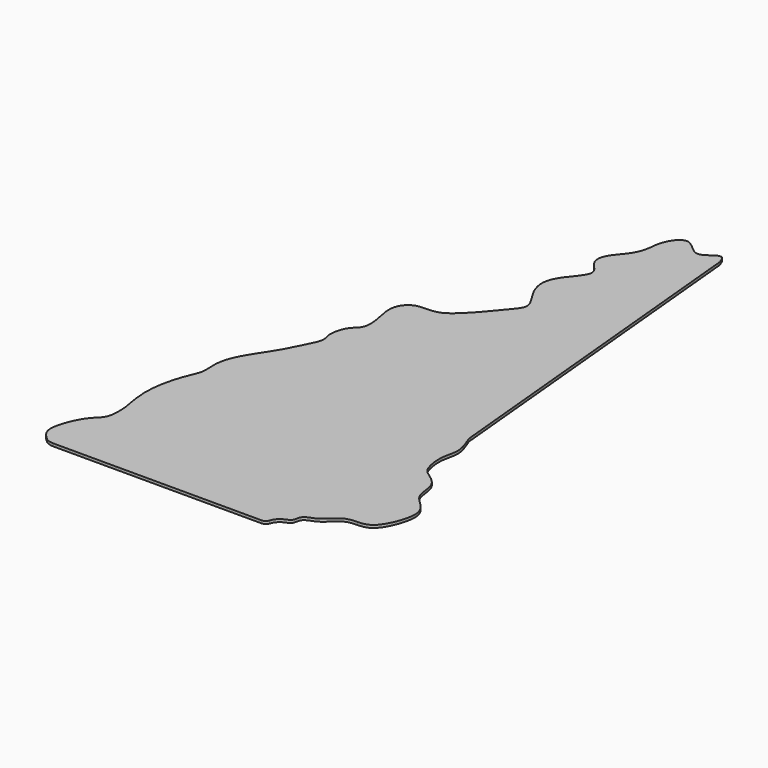
from build123d import *

# Parameters (mm, degrees)
F0_W     = 228
F0_H     = 228
F1_DEPTH = 1
F2_W     = 270
F2_H     = 270
F3_DEPTH = 1.001
F4_R     = 5
F5_R     = 2
F6_R     = 5
F7_R     = 5
F8_R     = 10
F9_R     = 5


with BuildPart() as f1:
    # F0 (on Top) → F1 (new body)
    with BuildSketch(Plane.XY):
        Rectangle(F0_W, F0_H)
    extrude(amount=F1_DEPTH)

    # F2 (on face) → F3 (cut, through all)
    with BuildSketch(Plane.XY.offset(1)):
        Rectangle(F2_W, F2_H)
        with BuildLine():
            add(Edge.make_bspline(
                [(8.3915293217, 98.9229977131), (8.8953785641, 100.4485285953), (9.8725686619, 103.40721851), (14.0877845885, 107.1436132809), (18.7006762979, 102.058086596), (21.8656139523, 100.7532318892), (25.0949242827, 103.3708839395), (28.0487089706, 104.9704734031), (28.9066232643, 102.6201794289), (29.3592624366, 101.3801544905)],
                knots=[0, 0, 0, 0, 0.1587608398, 0.3079086113, 0.4832868103, 0.6105097272, 0.7541508323, 0.8702889501, 1, 1, 1, 1], degree=3))
            Line((29.3592624366, 101.3801544905), (41.7708232999, -29.933264479))
            add(Edge.make_bspline(
                [(41.7708232999, -29.933264479), (42.8812493828, -32.7033292944), (44.9641728321, -37.899382457), (42.367954324, -43.7595080529), (43.7414371502, -52.1803708678), (45.4619932815, -53.6913616702), (46.1088754237, -54.2594529688)],
                knots=[0, 0, 0, 0, 0.2895440561, 0.5431231428, 0.8282267723, 1, 1, 1, 1], degree=3))
            add(Edge.make_bspline(
                [(46.1088754237, -54.2594529688), (48.2566585937, -55.7306577907), (52.5500523738, -58.6715792578), (51.7674936704, -67.0250033347), (57.6104966579, -71.1689261958), (60.5567075463, -77.091818741), (55.3366026369, -90.2932828536), (50.8943085138, -90.5508993939), (49.1355918348, -90.6528905034)],
                knots=[0, 0, 0, 0, 0.1655576886, 0.3309479097, 0.4863811685, 0.6394633459, 0.8572625294, 1, 1, 1, 1], degree=3))
            add(Edge.make_bspline(
                [(49.1355918348, -90.6528905034), (47.6626424295, -90.691342367), (44.5030498437, -90.7738246455), (40.4281988771, -95.4458619851), (37.6401193986, -96.839872506), (34.1039623085, -97.9971984485), (34.3478656968, -101.8364535116), (30.8751458146, -102.5314272713), (28.969941295, -104.9352945268), (28.635604084, -106.4218691593), (28.4809675068, -107.1094349027)],
                knots=[0, 0, 0, 0, 0.1425289572, 0.3057358487, 0.4282551665, 0.5490027224, 0.6663024629, 0.7841791398, 0.9001792262, 1, 1, 1, 1], degree=3))
            Line((28.4809675068, -107.1094349027), (-51.8666729331, -107.1094349027))
            add(Edge.make_bspline(
                [(-51.8666729331, -107.1094349027), (-53.4868687318, -105.7421762867), (-56.708205406, -103.0237392148), (-56.2700650061, -96.786695206), (-52.4412476922, -88.0392212822), (-47.4430116305, -84.8715543521), (-47.6711893443, -79.5946788907), (-47.7953292429, -76.7237991095)],
                knots=[0, 0, 0, 0, 0.1873787195, 0.372553701, 0.6080979137, 0.7867859903, 1, 1, 1, 1], degree=3))
            add(Edge.make_bspline(
                [(-47.7953292429, -76.7237991095), (-48.5941794953, -72.5280869708), (-50.1968366697, -64.1106293307), (-46.9187665584, -51.0164098199), (-43.8143768173, -45.4530291742), (-44.7248658481, -39.7645702153), (-43.332021129, -32.1647602245), (-35.4459903239, -21.3123197507), (-32.457318449, -14.7027827059), (-28.7630274666, -7.9823351623), (-30.7911219988, -4.8859354465), (-29.2621539565, 2.4927183908), (-25.0547507189, 4.8321884428), (-25.0596166414, 10.7894813687), (-26.6591905327, 16.2956117649), (-26.5916194679, 21.8760053477), (-22.7474263306, 25.7769080846), (-17.3812940385, 25.6155584914), (-11.222102607, 26.2084579835), (-3.6716320814, 35.4338056918), (1.2823668076, 41.4867214859)],
                knots=[0, 0, 0, 0, 0.0742095324, 0.1488795167, 0.1996674002, 0.2466113689, 0.303528844, 0.3783078692, 0.4362748828, 0.4896710903, 0.5274200103, 0.5811157922, 0.6244002091, 0.6716892113, 0.722003763, 0.7692927611, 0.814441687, 0.8604077217, 0.9084110071, 1, 1, 1, 1], degree=3))
            add(Edge.make_bspline(
                [(1.2823668076, 41.4867214859), (2.243162873, 42.7136844399), (4.4281569088, 45.5039818124), (-0.4841074875, 51.5454144465), (-3.4828086199, 59.2380310498), (-0.2803421653, 65.6770154577), (3.7524135381, 69.9075780796), (5.7407256007, 74.3312319619), (0.3608534359, 78.2781565643), (0.7231315424, 83.7018387642), (4.9631139732, 88.2044663077), (7.8338426878, 92.7182119649), (8.2010335417, 96.8035538737), (8.3915293217, 98.9229977131)],
                knots=[0, 0, 0, 0, 0.0786577918, 0.1788795896, 0.2866749447, 0.384735752, 0.4775673133, 0.5524418395, 0.6428332118, 0.7255361812, 0.8187626867, 0.9059754812, 1, 1, 1, 1], degree=3))
        make_face(mode=Mode.SUBTRACT)
    extrude(amount=-F3_DEPTH, mode=Mode.SUBTRACT)

    # F4
    f4_edges = [f1.edges().sort_by_distance(p)[0] for p in [
        (-51.866673, -107.109435, 0.5),
    ]]
    fillet(f4_edges, radius=F4_R)

    # F5
    f5_edges = [f1.edges().sort_by_distance(p)[0] for p in [
        (28.480968, -107.109435, 0.5),
    ]]
    fillet(f5_edges, radius=F5_R)

    # F6
    f6_edges = [f1.edges().sort_by_distance(p)[0] for p in [
        (46.108875, -54.259453, 0.5),
        (41.770823, -29.933264, 0.5),
    ]]
    fillet(f6_edges, radius=F6_R)

    # F7
    f7_edges = [f1.edges().sort_by_distance(p)[0] for p in [
        (29.359262, 101.380154, 0.5),
    ]]
    fillet(f7_edges, radius=F7_R)

    # F8
    f8_edges = [f1.edges().sort_by_distance(p)[0] for p in [
        (8.391529, 98.922998, 0.5),
        (1.282367, 41.486721, 0.5),
    ]]
    fillet(f8_edges, radius=F8_R)

    # F9
    f9_edges = [f1.edges().sort_by_distance(p)[0] for p in [
        (-47.795329, -76.723799, 0.5),
    ]]
    fillet(f9_edges, radius=F9_R)


solid = f1.part
